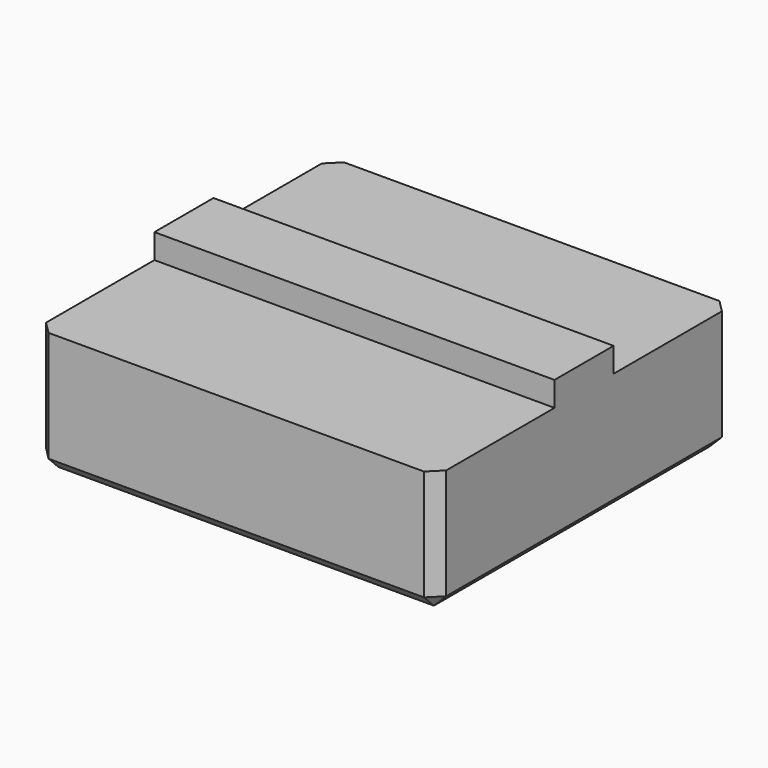
from build123d import *

# Parameters (mm, degrees)
BOX006_W        = 32.5
BOX006_H        = 6
BOX006_DEPTH    = 12
BOX007_W        = 32.5
BOX007_H        = 30
BOX007_DEPTH    = 10
CHAMFER003_SIZE = 1


with BuildPart() as cube006:
    # Box006 → Box006 (new body)
    with BuildSketch(Plane(origin=(0, 12, 0), x_dir=(1, 0, 0), z_dir=(0, 0, 1))):
        with Locations((16.25, 3)):
            Rectangle(BOX006_W, BOX006_H)
    extrude(amount=BOX006_DEPTH)


with BuildPart() as f_325_spacer:
    # Box007 → Box007 (new body)
    with BuildSketch(Plane.XY):
        with Locations((16.25, 15)):
            Rectangle(BOX007_W, BOX007_H)
    extrude(amount=BOX007_DEPTH)

    # Fusion002002: union Cube006
    add(cube006.part)

    # Chamfer003
    chamfer003_edges = [f_325_spacer.edges().sort_by_distance(p)[0] for p in [
        (0, 6, 0),
        (0, 0, 5),
        (0, 15, 0),
        (32.5, 6, 0),
        (16.25, 0, 0),
        (32.5, 0, 5),
        (0, 30, 5),
        (0, 24, 0),
        (32.5, 15, 0),
        (16.25, 30, 0),
        (32.5, 30, 5),
        (32.5, 24, 0),
    ]]
    chamfer(chamfer003_edges, length=CHAMFER003_SIZE)


solid = f_325_spacer.part
